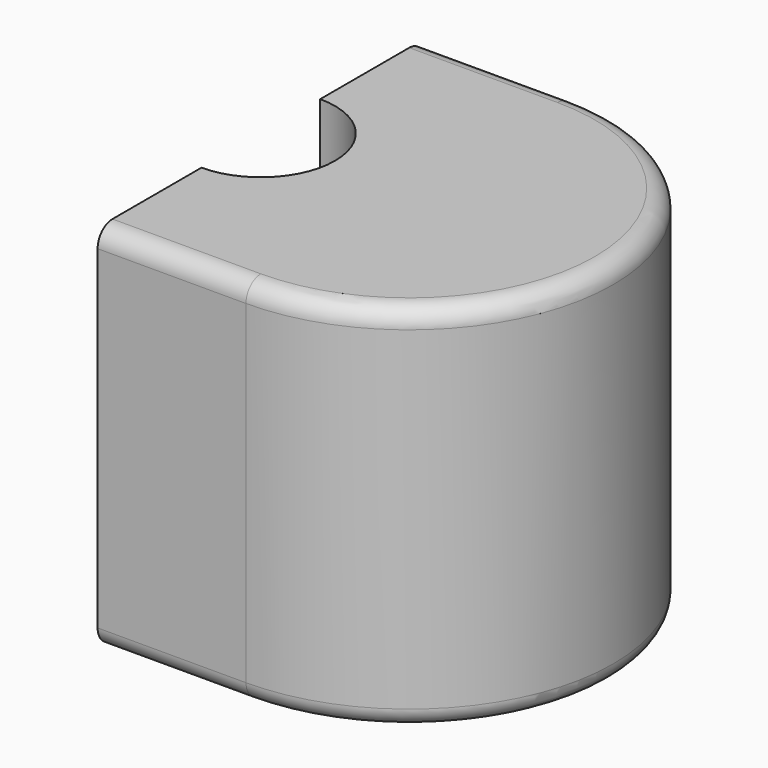
from build123d import *

# Parameters (mm, degrees)
F1_DEPTH = 100
F2_R     = 5


with BuildPart() as f1:
    # F0 (on Top) → F1 (new body)
    with BuildSketch(Plane.XY):
        with BuildLine():
            ThreePointArc((0, 20), (20, 0), (0, -20))
            Line((0, -20), (0, -55))
            Line((0, -55), (40, -55))
            ThreePointArc((40, -55), (95, 0), (40, 55))
            Line((40, 55), (0, 55))
            Line((0, 55), (0, 20))
        make_face()
    extrude(amount=F1_DEPTH)

    # F2
    f2_edges = [f1.edges().sort_by_distance(p)[0] for p in [
        (95, 0, 100),
        (95, 0, 0),
    ]]
    fillet(f2_edges, radius=F2_R)


solid = f1.part
